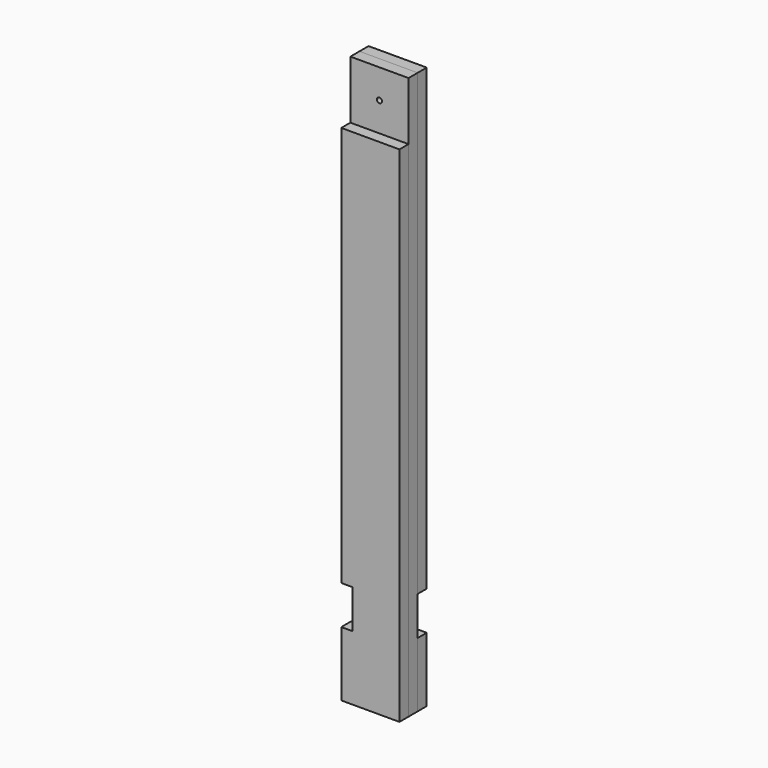
from build123d import *

# Parameters (mm, degrees)
F1_R     = 4
F2_DEPTH = 17.6
F4_DEPTH = 17.6
F5_R     = 4
F6_DEPTH = 17.6


with BuildPart() as f2:
    # F1 (on Front) → F2 (new body)
    with BuildSketch(Plane.XZ):
        Polygon((45, 256.875), (-45, 256.875), (-45, -453.125), (-27.4, -453.125), (-27.4, -513.125), (-45, -513.125), (-45, -613.125), (45, -613.125), align=None)
        with Locations((0, 211.875)):
            Circle(F1_R, mode=Mode.SUBTRACT)
    extrude(amount=F2_DEPTH)


with BuildPart() as f4:
    # F3 (on face) → F4 (new body)
    with BuildSketch(Plane.XZ.offset(17.6)):
        Polygon((45, 166.875), (-45, 166.875), (-45, -453.125), (-27.4, -453.125), (-27.4, -513.125), (-45, -513.125), (-45, -613.125), (45, -613.125), align=None)
    extrude(amount=F4_DEPTH)


with BuildPart() as f6:
    # F5 (on Front) → F6 (new body)
    with BuildSketch(Plane.XZ):
        Polygon((45, 256.875), (-45, 256.875), (-45, -453.125), (-27.4, -453.125), (45, -453.125), align=None)
        with Locations((0, 211.875)):
            Circle(F5_R, mode=Mode.SUBTRACT)
    extrude(amount=-F6_DEPTH)


with BuildPart() as f6b:
    # F5 (on Front) → F6, piece 2 (new body)
    with BuildSketch(Plane.XZ):
        Polygon((-45, -613.125), (45, -613.125), (45, -513.125), (-27.4, -513.125), (-45, -513.125), align=None)
    extrude(amount=-F6_DEPTH)


solid = Compound([f2.part, f4.part, f6.part, f6b.part])
